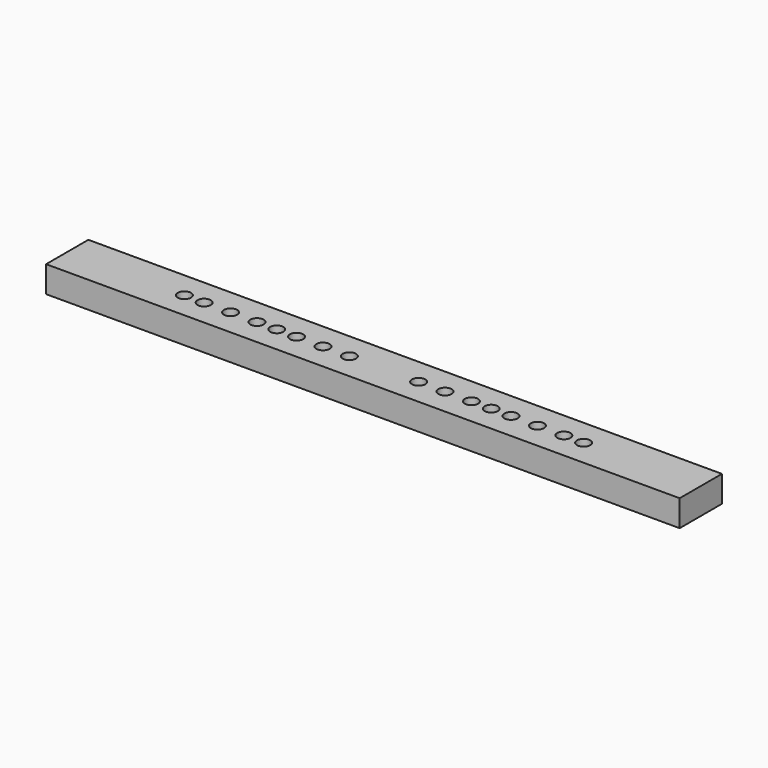
from build123d import *

# Parameters (mm, degrees)
F0_W     = 609.6
F0_H     = 50.8
F0_R     = 6.3881
F0_R_2   = 6.389688
F1_DEPTH = 25.4


with BuildPart() as f1:
    # F0 (on Top) → F1 (new body)
    with BuildSketch(Plane.XY):
        Rectangle(F0_W, F0_H)
        with Locations((-192.0748, 0)):
            Circle(F0_R, mode=Mode.SUBTRACT)
        with Locations((-173.0248, 0)):
            Circle(F0_R, mode=Mode.SUBTRACT)
        with Locations((-147.6248, 0)):
            Circle(F0_R, mode=Mode.SUBTRACT)
        with Locations((-122.2248, 0)):
            Circle(F0_R, mode=Mode.SUBTRACT)
        with Locations((-103.1748, 0)):
            Circle(F0_R, mode=Mode.SUBTRACT)
        with Locations((-84.1375, 0)):
            Circle(F0_R, mode=Mode.SUBTRACT)
        with Locations((-58.7375, 0)):
            Circle(F0_R, mode=Mode.SUBTRACT)
        with Locations((-33.3375, 0)):
            Circle(F0_R_2, mode=Mode.SUBTRACT)
        with Locations((33.3375, 0)):
            Circle(F0_R, mode=Mode.SUBTRACT)
        with Locations((58.7375, 0)):
            Circle(F0_R, mode=Mode.SUBTRACT)
        with Locations((84.1375, 0)):
            Circle(F0_R, mode=Mode.SUBTRACT)
        with Locations((103.1748, 0)):
            Circle(F0_R, mode=Mode.SUBTRACT)
        with Locations((122.2248, 0)):
            Circle(F0_R, mode=Mode.SUBTRACT)
        with Locations((147.6248, 0)):
            Circle(F0_R, mode=Mode.SUBTRACT)
        with Locations((173.0248, 0)):
            Circle(F0_R, mode=Mode.SUBTRACT)
        with Locations((192.0748, 0)):
            Circle(F0_R, mode=Mode.SUBTRACT)
    extrude(amount=F1_DEPTH)


solid = f1.part
